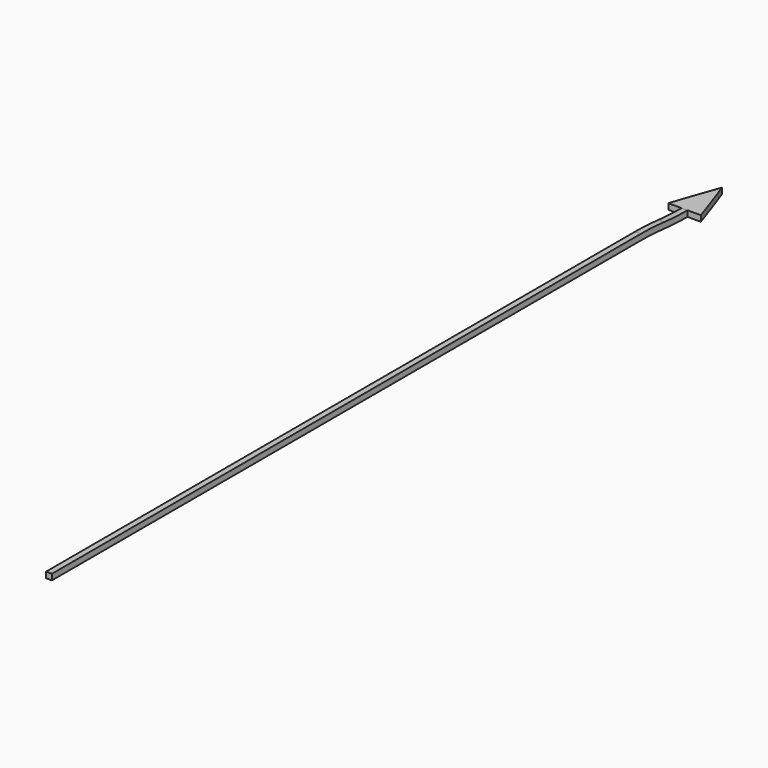
from build123d import *

# Parameters (mm, degrees)
F1_DEPTH = 38.1
F3_DEPTH = 25.4
F5_DEPTH = 25.4


with BuildPart() as f1:
    # F0 (on Top) → F1 (new body)
    with BuildSketch(Plane.XY):
        with BuildLine():
            ThreePointArc((12.7, 1793.798003), (6.375299, 1811.308181), (0, 1828.8))
            ThreePointArc((0, 1828.8), (-6.375299, 1811.308181), (-12.7, 1793.798003))
            Line((-12.7, 1793.798003), (-12.7, -1828.8))
            Line((-12.7, -1828.8), (0, -1828.8))
            Line((0, -1828.8), (12.7, -1828.8))
            Line((12.7, -1828.8), (12.7, 1793.798003))
        make_face()
    extrude(amount=F1_DEPTH)

    # F2 (on face) → F3 (cut)
    with BuildSketch(Plane.YZ.offset(12.7)):
        with BuildLine():
            Line((-1828.8, 12.7), (-1828.8, 0))
            Line((-1828.8, 0), (1625.6, 0))
            ThreePointArc((1625.6, 0), (1562.020675, 1.588491), (1498.6, 6.35))
            ThreePointArc((1498.6, 6.35), (1435.179325, 11.111509), (1371.6, 12.7))
            Line((1371.6, 12.7), (-1828.8, 12.7))
        make_face()
        with BuildLine():
            Line((1625.6, 25.4), (1828.8, 25.4))
            Line((1828.8, 25.4), (1828.8, 38.1))
            Line((1828.8, 38.1), (1371.6, 38.1))
            ThreePointArc((1371.6, 38.1), (1435.179325, 36.511509), (1498.6, 31.75))
            ThreePointArc((1498.6, 31.75), (1562.020675, 26.988491), (1625.6, 25.4))
        make_face()
    extrude(amount=-F3_DEPTH, mode=Mode.SUBTRACT)

    # F4 (on face) → F5 (join)
    with BuildSketch(Plane.XY.offset(25.4)):
        with BuildLine():
            Line((-70.568017, 1625.6), (-12.7, 1625.6))
            Line((-12.7, 1625.6), (-12.7, 1793.798003))
            ThreePointArc((-12.7, 1793.798003), (-42.214787, 1709.898816), (-70.568017, 1625.6))
        make_face()
        with BuildLine():
            Line((12.7, 1793.798003), (12.7, 1625.6))
            Line((12.7, 1625.6), (70.568017, 1625.6))
            ThreePointArc((70.568017, 1625.6), (42.214787, 1709.898816), (12.7, 1793.798003))
        make_face()
    extrude(amount=-F5_DEPTH)


solid = f1.part
